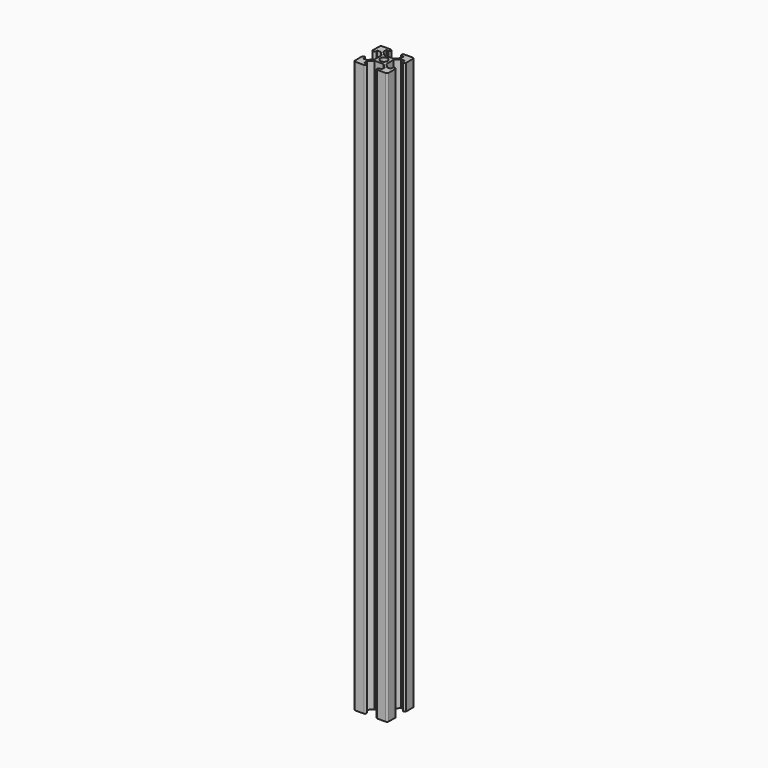
from build123d import *

# Parameters (mm, degrees)
F0_R     = 2.794
F1_DEPTH = 431.8


with BuildPart() as f1:
    # F0 (on Top) → F1 (new body)
    with BuildSketch(Plane.XY):
        Polygon((4.572, -3.440488), (4.572, -4.572), (3.440488, -4.572), (6.604, -7.735512), (6.604, -10.414), (10.414, -10.414), (10.414, -6.604), (7.735512, -6.604), align=None)
        Polygon((3.440488, -4.572), (4.572, -4.572), (4.572, -3.440488), (4.572, 3.440488), (4.572, 4.572), (3.440488, 4.572), (-3.440488, 4.572), (-4.572, 4.572), (-4.572, 3.440488), (-4.572, -3.440488), (-4.572, -4.572), (-3.440488, -4.572), align=None)
        Circle(F0_R, mode=Mode.SUBTRACT)
        Polygon((-6.604, -7.735512), (-3.440488, -4.572), (-4.572, -4.572), (-4.572, -3.440488), (-7.735512, -6.604), (-10.414, -6.604), (-10.414, -10.414), (-6.604, -10.414), align=None)
        Polygon((4.572, 4.572), (4.572, 3.440488), (7.735512, 6.604), (10.414, 6.604), (10.414, 10.414), (6.604, 10.414), (6.604, 7.735512), (3.440488, 4.572), align=None)
        with BuildLine():
            Line((10.414, -10.414), (6.604, -10.414))
            Line((6.604, -10.414), (4.92125, -10.414))
            ThreePointArc((4.92125, -10.414), (4.064, -11.557), (4.92125, -12.7))
            Line((4.92125, -12.7), (10.414, -12.7))
            Line((10.414, -12.7), (10.414, -10.414))
        make_face()
        with BuildLine():
            Line((10.414, -4.92125), (10.414, -6.604))
            Line((10.414, -6.604), (10.414, -10.414))
            Line((10.414, -10.414), (12.7, -10.414))
            Line((12.7, -10.414), (12.7, -4.92125))
            ThreePointArc((12.7, -4.92125), (11.557, -4.064), (10.414, -4.92125))
        make_face()
        with BuildLine():
            Line((-4.92125, -10.414), (-6.604, -10.414))
            Line((-6.604, -10.414), (-10.414, -10.414))
            Line((-10.414, -10.414), (-10.414, -12.7))
            Line((-10.414, -12.7), (-4.92125, -12.7))
            ThreePointArc((-4.92125, -12.7), (-4.064, -11.557), (-4.92125, -10.414))
        make_face()
        with BuildLine():
            Line((12.7, -10.414), (10.414, -10.414))
            Line((10.414, -10.414), (10.414, -12.7))
            Line((10.414, -12.7), (11.43, -12.7))
            ThreePointArc((11.43, -12.7), (12.328026, -12.328026), (12.7, -11.43))
            Line((12.7, -11.43), (12.7, -10.414))
        make_face()
        with BuildLine():
            Line((10.414, 10.414), (10.414, 6.604))
            Line((10.414, 6.604), (10.414, 4.92125))
            ThreePointArc((10.414, 4.92125), (11.557, 4.064), (12.7, 4.92125))
            Line((12.7, 4.92125), (12.7, 10.414))
            Line((12.7, 10.414), (10.414, 10.414))
        make_face()
        Polygon((-7.735512, 6.604), (-4.572, 3.440488), (-4.572, 4.572), (-3.440488, 4.572), (-6.604, 7.735512), (-6.604, 10.414), (-10.414, 10.414), (-10.414, 6.604), align=None)
        with BuildLine():
            Line((-12.7, -10.414), (-10.414, -10.414))
            Line((-10.414, -10.414), (-10.414, -6.604))
            Line((-10.414, -6.604), (-10.414, -4.92125))
            ThreePointArc((-10.414, -4.92125), (-11.557, -4.064), (-12.7, -4.92125))
            Line((-12.7, -4.92125), (-12.7, -10.414))
        make_face()
        with BuildLine():
            Line((-10.414, -12.7), (-10.414, -10.414))
            Line((-10.414, -10.414), (-12.7, -10.414))
            Line((-12.7, -10.414), (-12.7, -11.43))
            ThreePointArc((-12.7, -11.43), (-12.328026, -12.328026), (-11.43, -12.7))
            Line((-11.43, -12.7), (-10.414, -12.7))
        make_face()
        with BuildLine():
            Line((10.414, 12.7), (10.414, 10.414))
            Line((10.414, 10.414), (12.7, 10.414))
            Line((12.7, 10.414), (12.7, 11.43))
            ThreePointArc((12.7, 11.43), (12.328026, 12.328026), (11.43, 12.7))
            Line((11.43, 12.7), (10.414, 12.7))
        make_face()
        with BuildLine():
            Line((6.604, 10.414), (10.414, 10.414))
            Line((10.414, 10.414), (10.414, 12.7))
            Line((10.414, 12.7), (4.92125, 12.7))
            ThreePointArc((4.92125, 12.7), (4.064, 11.557), (4.92125, 10.414))
            Line((4.92125, 10.414), (6.604, 10.414))
        make_face()
        with BuildLine():
            Line((-10.414, 4.92125), (-10.414, 6.604))
            Line((-10.414, 6.604), (-10.414, 10.414))
            Line((-10.414, 10.414), (-12.7, 10.414))
            Line((-12.7, 10.414), (-12.7, 4.92125))
            ThreePointArc((-12.7, 4.92125), (-11.557, 4.064), (-10.414, 4.92125))
        make_face()
        with BuildLine():
            Line((-10.414, 10.414), (-6.604, 10.414))
            Line((-6.604, 10.414), (-4.92125, 10.414))
            ThreePointArc((-4.92125, 10.414), (-4.064, 11.557), (-4.92125, 12.7))
            Line((-4.92125, 12.7), (-10.414, 12.7))
            Line((-10.414, 12.7), (-10.414, 10.414))
        make_face()
        with BuildLine():
            Line((-12.7, 10.414), (-10.414, 10.414))
            Line((-10.414, 10.414), (-10.414, 12.7))
            Line((-10.414, 12.7), (-11.43, 12.7))
            ThreePointArc((-11.43, 12.7), (-12.328026, 12.328026), (-12.7, 11.43))
            Line((-12.7, 11.43), (-12.7, 10.414))
        make_face()
    extrude(amount=F1_DEPTH)


solid = f1.part
